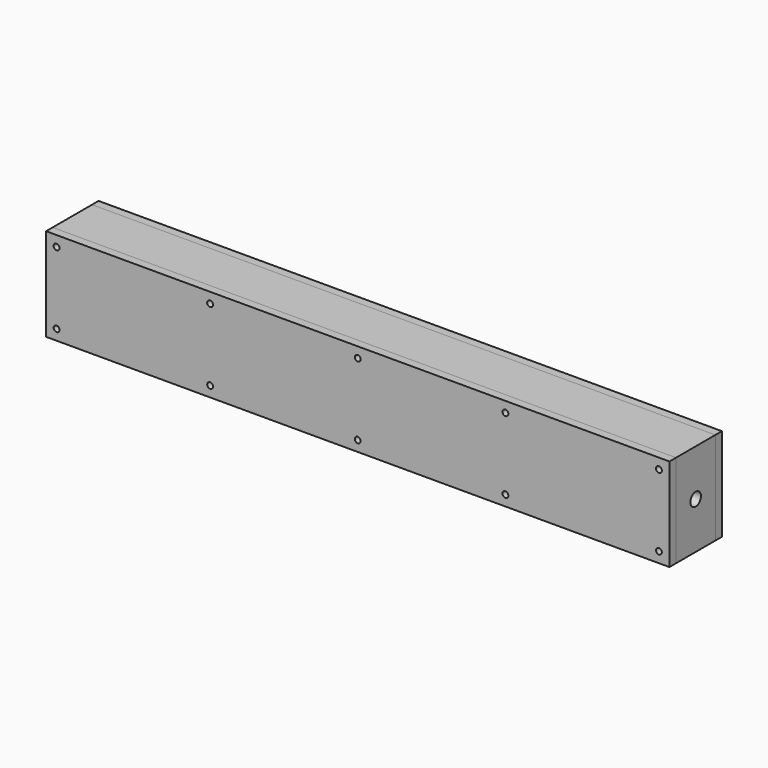
from build123d import *

# Parameters (mm, degrees)
F0_W      = 241.3
F0_H      = 36
F1_DEPTH  = 19.05
F2_W      = 130
F2_H      = 19.4
F3_DEPTH  = 8.5
F4_W      = 126
F4_H      = 9.4
F5_DEPTH  = 10.551
F6_W      = 45
F6_H      = 17
F7_DEPTH  = 8.5
F8_R      = 2.5527
F9_DEPTH  = 9.525
F10_R     = 2.5527
F11_DEPTH = 50.8
F12_W     = 4.7625
F12_H     = 8.5
F13_DEPTH = 9.501
F14_W     = 241.3
F14_H     = 36
F15_DEPTH = 3.175
F17_W     = 241.3
F17_H     = 36
F18_DEPTH = 3.175
F19_D     = 2.2606
F19_2_D   = 2.2606
F19_3_D   = 2.2606


with BuildPart() as f1:
    # F0 (on Front) → F1 (new body)
    with BuildSketch(Plane.XZ):
        with Locations((120.65, 18)):
            Rectangle(F0_W, F0_H)
    extrude(amount=F1_DEPTH)

    # F2 (on face) → F3 (cut)
    with BuildSketch(Plane.XZ.offset(19.05)):
        with Locations((120.65, 18)):
            Rectangle(F2_W, F2_H)
    extrude(amount=-F3_DEPTH, mode=Mode.SUBTRACT)

    # F4 (on face) → F5 (cut, through all)
    with BuildSketch(Plane.XZ.offset(10.55)):
        with Locations((120.65, 21)):
            Rectangle(F4_W, F4_H)
    extrude(amount=-F5_DEPTH, mode=Mode.SUBTRACT)

    # F6 (on face) → F7 (cut, through all)
    with BuildSketch(Plane.XZ.offset(19.05)):
        with Locations((33.15, 18)):
            Rectangle(F6_W, F6_H)
    extrude(amount=-F7_DEPTH, mode=Mode.SUBTRACT)

    # F8 (on face) → F9 (cut)
    with BuildSketch(Plane(origin=(0, 0, 0), x_dir=(0, -1, 0), z_dir=(-1, 0, 0))):
        with Locations((9.525, 18)):
            Circle(F8_R)
    extrude(amount=-F9_DEPTH, mode=Mode.SUBTRACT)

    # F10 (on face) → F11 (cut)
    with BuildSketch(Plane.YZ.offset(241.3)):
        with Locations((-9.525, 18)):
            Circle(F10_R)
    extrude(amount=-F11_DEPTH, mode=Mode.SUBTRACT)

    # F12 (on face) → F13 (cut, through all)
    with BuildSketch(Plane.XY.offset(9.5)):
        with Locations((13.03125, -14.8)):
            Rectangle(F12_W, F12_H)
    extrude(amount=-F13_DEPTH, mode=Mode.SUBTRACT)

    # F19 (through all)
    with Locations(Plane(origin=(0, 3.175, 0), x_dir=(-1, 0, 0), z_dir=(0, 1, 0))):
        with Locations((-177.8, 31.936), (-120.65, 31.936), (-177.8, 4.064), (-120.65, 4.064), (-63.5, 31.936), (-63.5, 4.064), (-237.236, 4.064), (-237.236, 31.936), (-4.064, 31.936), (-4.064, 4.064)):
            Hole(F19_D / 2)


with BuildPart() as f15:
    # F14 (on face) → F15 (new body)
    with BuildSketch(Plane(origin=(0, 0, 0), x_dir=(-1, 0, 0), z_dir=(0, 1, 0))):
        with Locations((-120.65, 18)):
            Rectangle(F14_W, F14_H)
    extrude(amount=F15_DEPTH)

    # F19#2 (through all)
    with Locations(Plane(origin=(0, 3.175, 0), x_dir=(-1, 0, 0), z_dir=(0, 1, 0))):
        with Locations((-177.8, 31.936), (-120.65, 31.936), (-177.8, 4.064), (-120.65, 4.064), (-63.5, 31.936), (-63.5, 4.064), (-237.236, 4.064), (-237.236, 31.936), (-4.064, 31.936), (-4.064, 4.064)):
            Hole(F19_2_D / 2)


with BuildPart() as f18:
    # F17 (on face) → F18 (new body)
    with BuildSketch(Plane.XZ.offset(19.05)):
        with Locations((120.65, 18)):
            Rectangle(F17_W, F17_H)
    extrude(amount=F18_DEPTH)

    # F19#3 (through all)
    with Locations(Plane(origin=(0, 3.175, 0), x_dir=(-1, 0, 0), z_dir=(0, 1, 0))):
        with Locations((-177.8, 31.936), (-120.65, 31.936), (-177.8, 4.064), (-120.65, 4.064), (-63.5, 31.936), (-63.5, 4.064), (-237.236, 4.064), (-237.236, 31.936), (-4.064, 31.936), (-4.064, 4.064)):
            Hole(F19_3_D / 2)


solid = Compound([f1.part, f15.part, f18.part])
